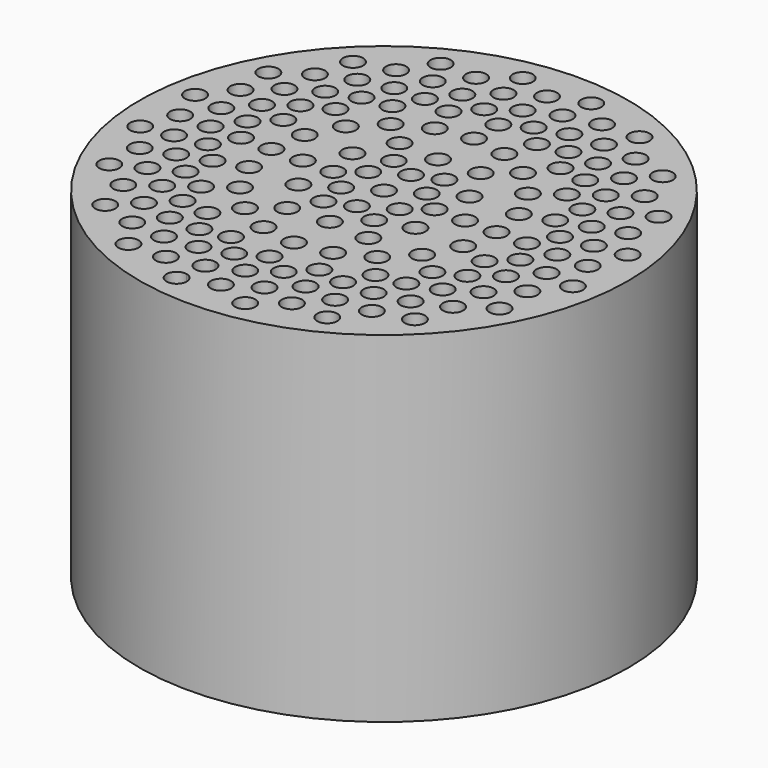
from build123d import *

# Parameters (mm, degrees)
F0_R     = 30.607
F0_R_2   = 29.337
F1_DEPTH = 42.672
F2_R     = 29.337
F2_R_2   = 1.27
F3_DEPTH = 2.54
F4_R     = 1.27
F7_DEPTH = 2.54
F5_R     = 1.27
F8_DEPTH = 2.54
F6_R     = 1.27
F9_DEPTH = 2.54


with BuildPart() as f1:
    # F0 (on Top) → F1 (new body)
    with BuildSketch(Plane.XY):
        Circle(F0_R)
        Circle(F0_R_2, mode=Mode.SUBTRACT)
    extrude(amount=-F1_DEPTH)

    # F2 (on Top) → F3 (join)
    with BuildSketch(Plane.XY):
        Circle(F2_R)
        with Locations((-15.004394, -20.651777)):
            Circle(F2_R_2, mode=Mode.SUBTRACT)
        with Locations((-20.651777, -15.004394)):
            Circle(F2_R_2, mode=Mode.SUBTRACT)
        with Locations((-7.888277, -24.27762)):
            Circle(F2_R_2, mode=Mode.SUBTRACT)
        with Locations((0, -25.527)):
            Circle(F2_R_2, mode=Mode.SUBTRACT)
        with Locations((-12.764932, -17.569422)):
            Circle(F2_R_2, mode=Mode.SUBTRACT)
        with Locations((-6.710922, -20.654094)):
            Circle(F2_R_2, mode=Mode.SUBTRACT)
        with Locations((0, -21.717)):
            Circle(F2_R_2, mode=Mode.SUBTRACT)
        with Locations((-5.533567, -17.030569)):
            Circle(F2_R_2, mode=Mode.SUBTRACT)
        with Locations((0, -17.907)):
            Circle(F2_R_2, mode=Mode.SUBTRACT)
        with Locations((-24.27762, -7.888277)):
            Circle(F2_R_2, mode=Mode.SUBTRACT)
        with Locations((-17.569422, -12.764932)):
            Circle(F2_R_2, mode=Mode.SUBTRACT)
        with Locations((-25.527, 0)):
            Circle(F2_R_2, mode=Mode.SUBTRACT)
        with Locations((-20.654094, -6.710922)):
            Circle(F2_R_2, mode=Mode.SUBTRACT)
        with Locations((-17.030569, -5.533567)):
            Circle(F2_R_2, mode=Mode.SUBTRACT)
        with Locations((-21.717, 0)):
            Circle(F2_R_2, mode=Mode.SUBTRACT)
        with Locations((-17.907, 0)):
            Circle(F2_R_2, mode=Mode.SUBTRACT)
        with Locations((-10.525471, -14.487067)):
            Circle(F2_R_2, mode=Mode.SUBTRACT)
        with Locations((-8.286009, -11.404713)):
            Circle(F2_R_2, mode=Mode.SUBTRACT)
        with Locations((-14.487067, -10.525471)):
            Circle(F2_R_2, mode=Mode.SUBTRACT)
        with Locations((-11.404713, -8.286009)):
            Circle(F2_R_2, mode=Mode.SUBTRACT)
        with Locations((-4.356213, -13.407044)):
            Circle(F2_R_2, mode=Mode.SUBTRACT)
        with Locations((0, -14.097)):
            Circle(F2_R_2, mode=Mode.SUBTRACT)
        with Locations((-13.407044, -4.356213)):
            Circle(F2_R_2, mode=Mode.SUBTRACT)
        with Locations((-14.097, 0)):
            Circle(F2_R_2, mode=Mode.SUBTRACT)
        Circle(F2_R_2, mode=Mode.SUBTRACT)
        with Locations((7.888277, -24.27762)):
            Circle(F2_R_2, mode=Mode.SUBTRACT)
        with Locations((6.710922, -20.654094)):
            Circle(F2_R_2, mode=Mode.SUBTRACT)
        with Locations((5.533567, -17.030569)):
            Circle(F2_R_2, mode=Mode.SUBTRACT)
        with Locations((12.764932, -17.569422)):
            Circle(F2_R_2, mode=Mode.SUBTRACT)
        with Locations((15.004394, -20.651777)):
            Circle(F2_R_2, mode=Mode.SUBTRACT)
        with Locations((20.651777, -15.004394)):
            Circle(F2_R_2, mode=Mode.SUBTRACT)
        with Locations((4.356213, -13.407044)):
            Circle(F2_R_2, mode=Mode.SUBTRACT)
        with Locations((10.525471, -14.487067)):
            Circle(F2_R_2, mode=Mode.SUBTRACT)
        with Locations((8.286009, -11.404713)):
            Circle(F2_R_2, mode=Mode.SUBTRACT)
        with Locations((14.487067, -10.525471)):
            Circle(F2_R_2, mode=Mode.SUBTRACT)
        with Locations((11.404713, -8.286009)):
            Circle(F2_R_2, mode=Mode.SUBTRACT)
        with Locations((13.407044, -4.356213)):
            Circle(F2_R_2, mode=Mode.SUBTRACT)
        with Locations((14.097, 0)):
            Circle(F2_R_2, mode=Mode.SUBTRACT)
        with Locations((17.569422, -12.764932)):
            Circle(F2_R_2, mode=Mode.SUBTRACT)
        with Locations((24.27762, -7.888277)):
            Circle(F2_R_2, mode=Mode.SUBTRACT)
        with Locations((17.030569, -5.533567)):
            Circle(F2_R_2, mode=Mode.SUBTRACT)
        with Locations((20.654094, -6.710922)):
            Circle(F2_R_2, mode=Mode.SUBTRACT)
        with Locations((17.907, 0)):
            Circle(F2_R_2, mode=Mode.SUBTRACT)
        with Locations((21.717, 0)):
            Circle(F2_R_2, mode=Mode.SUBTRACT)
        with Locations((25.527, 0)):
            Circle(F2_R_2, mode=Mode.SUBTRACT)
        with Locations((-20.654094, 6.710922)):
            Circle(F2_R_2, mode=Mode.SUBTRACT)
        with Locations((-17.030569, 5.533567)):
            Circle(F2_R_2, mode=Mode.SUBTRACT)
        with Locations((-24.27762, 7.888277)):
            Circle(F2_R_2, mode=Mode.SUBTRACT)
        with Locations((-17.569422, 12.764932)):
            Circle(F2_R_2, mode=Mode.SUBTRACT)
        with Locations((-13.407044, 4.356213)):
            Circle(F2_R_2, mode=Mode.SUBTRACT)
        with Locations((-11.404713, 8.286009)):
            Circle(F2_R_2, mode=Mode.SUBTRACT)
        with Locations((-14.487067, 10.525471)):
            Circle(F2_R_2, mode=Mode.SUBTRACT)
        with Locations((-8.286009, 11.404713)):
            Circle(F2_R_2, mode=Mode.SUBTRACT)
        with Locations((-10.525471, 14.487067)):
            Circle(F2_R_2, mode=Mode.SUBTRACT)
        with Locations((-4.356213, 13.407044)):
            Circle(F2_R_2, mode=Mode.SUBTRACT)
        with Locations((0, 14.097)):
            Circle(F2_R_2, mode=Mode.SUBTRACT)
        with Locations((-20.651777, 15.004394)):
            Circle(F2_R_2, mode=Mode.SUBTRACT)
        with Locations((-15.004394, 20.651777)):
            Circle(F2_R_2, mode=Mode.SUBTRACT)
        with Locations((-12.764932, 17.569422)):
            Circle(F2_R_2, mode=Mode.SUBTRACT)
        with Locations((-5.533567, 17.030569)):
            Circle(F2_R_2, mode=Mode.SUBTRACT)
        with Locations((0, 17.907)):
            Circle(F2_R_2, mode=Mode.SUBTRACT)
        with Locations((-6.710922, 20.654094)):
            Circle(F2_R_2, mode=Mode.SUBTRACT)
        with Locations((0, 21.717)):
            Circle(F2_R_2, mode=Mode.SUBTRACT)
        with Locations((-7.888277, 24.27762)):
            Circle(F2_R_2, mode=Mode.SUBTRACT)
        with Locations((0, 25.527)):
            Circle(F2_R_2, mode=Mode.SUBTRACT)
        with Locations((13.407044, 4.356213)):
            Circle(F2_R_2, mode=Mode.SUBTRACT)
        with Locations((4.356213, 13.407044)):
            Circle(F2_R_2, mode=Mode.SUBTRACT)
        with Locations((11.404713, 8.286009)):
            Circle(F2_R_2, mode=Mode.SUBTRACT)
        with Locations((14.487067, 10.525471)):
            Circle(F2_R_2, mode=Mode.SUBTRACT)
        with Locations((8.286009, 11.404713)):
            Circle(F2_R_2, mode=Mode.SUBTRACT)
        with Locations((10.525471, 14.487067)):
            Circle(F2_R_2, mode=Mode.SUBTRACT)
        with Locations((17.030569, 5.533567)):
            Circle(F2_R_2, mode=Mode.SUBTRACT)
        with Locations((20.654094, 6.710922)):
            Circle(F2_R_2, mode=Mode.SUBTRACT)
        with Locations((17.569422, 12.764932)):
            Circle(F2_R_2, mode=Mode.SUBTRACT)
        with Locations((24.27762, 7.888277)):
            Circle(F2_R_2, mode=Mode.SUBTRACT)
        with Locations((5.533567, 17.030569)):
            Circle(F2_R_2, mode=Mode.SUBTRACT)
        with Locations((6.710922, 20.654094)):
            Circle(F2_R_2, mode=Mode.SUBTRACT)
        with Locations((12.764932, 17.569422)):
            Circle(F2_R_2, mode=Mode.SUBTRACT)
        with Locations((7.888277, 24.27762)):
            Circle(F2_R_2, mode=Mode.SUBTRACT)
        with Locations((20.651777, 15.004394)):
            Circle(F2_R_2, mode=Mode.SUBTRACT)
        with Locations((15.004394, 20.651777)):
            Circle(F2_R_2, mode=Mode.SUBTRACT)
    extrude(amount=-F3_DEPTH)

    # F4 (on face) → F7 (cut, through all)
    with BuildSketch(Plane.XY):
        with BuildLine():
            ThreePointArc((-3.893967, -24.585538), (-2.870496, -24.29689), (-2.425295, -23.331174))
            ThreePointArc((-2.425295, -23.331174), (-2.729579, -22.506375), (-3.496623, -22.07681))
            Line((-3.496623, -22.07681), (-3.893967, -24.585538))
        make_face()
        with BuildLine():
            ThreePointArc((-3.02131, -27.094267), (-3.325595, -26.269468), (-4.092638, -25.839902))
            Line((-4.092638, -25.839902), (-4.489982, -28.348631))
            ThreePointArc((-4.489982, -28.348631), (-3.466511, -28.059982), (-3.02131, -27.094267))
        make_face()
        with BuildLine():
            Line((-4.489982, -28.348631), (-4.092638, -25.839902))
            ThreePointArc((-4.092638, -25.839902), (-5.545674, -26.895595), (-4.489982, -28.348631))
        make_face()
        with BuildLine():
            ThreePointArc((-2.900608, -18.313717), (-4.353644, -19.36941), (-3.297951, -20.822446))
            Line((-3.297951, -20.822446), (-2.900608, -18.313717))
        make_face()
        with BuildLine():
            Line((-2.900608, -18.313717), (-3.297951, -20.822446))
            ThreePointArc((-3.297951, -20.822446), (-2.274481, -20.533797), (-1.82928, -19.568081))
            ThreePointArc((-1.82928, -19.568081), (-2.133564, -18.743282), (-2.900608, -18.313717))
        make_face()
        with BuildLine():
            Line((-3.893967, -24.585538), (-3.496623, -22.07681))
            ThreePointArc((-3.496623, -22.07681), (-4.949659, -23.132502), (-3.893967, -24.585538))
        make_face()
        with Locations((4.29131, -27.094267)):
            Circle(F4_R)
        with Locations((3.695295, -23.331174)):
            Circle(F4_R)
        with Locations((12.453867, -24.442091)):
            Circle(F4_R)
        with Locations((10.724164, -21.047356)):
            Circle(F4_R)
        with Locations((19.397353, -19.397353)):
            Circle(F4_R)
        with Locations((16.703276, -16.703276)):
            Circle(F4_R)
        with Locations((24.442091, -12.453867)):
            Circle(F4_R)
        with Locations((21.047356, -10.724164)):
            Circle(F4_R)
        with Locations((27.094267, -4.29131)):
            Circle(F4_R)
        with Locations((23.331174, -3.695295)):
            Circle(F4_R)
        with Locations((27.094267, 4.29131)):
            Circle(F4_R)
        with Locations((23.331174, 3.695295)):
            Circle(F4_R)
        with Locations((24.442091, 12.453867)):
            Circle(F4_R)
        with Locations((21.047356, 10.724164)):
            Circle(F4_R)
        with Locations((19.397353, 19.397353)):
            Circle(F4_R)
        with Locations((16.703276, 16.703276)):
            Circle(F4_R)
        with Locations((12.453867, 24.442091)):
            Circle(F4_R)
        with Locations((10.724164, 21.047356)):
            Circle(F4_R)
        with Locations((4.29131, 27.094267)):
            Circle(F4_R)
        with Locations((3.695295, 23.331174)):
            Circle(F4_R)
        with Locations((-4.29131, 27.094267)):
            Circle(F4_R)
        with Locations((-3.695295, 23.331174)):
            Circle(F4_R)
        with Locations((-12.453867, 24.442091)):
            Circle(F4_R)
        with Locations((-10.724164, 21.047356)):
            Circle(F4_R)
        with Locations((-19.397353, 19.397353)):
            Circle(F4_R)
        with Locations((-16.703276, 16.703276)):
            Circle(F4_R)
        with Locations((-24.442091, 12.453867)):
            Circle(F4_R)
        with Locations((-21.047356, 10.724164)):
            Circle(F4_R)
        with Locations((-27.094267, 4.29131)):
            Circle(F4_R)
        with Locations((-23.331174, 3.695295)):
            Circle(F4_R)
        with Locations((-27.094267, -4.29131)):
            Circle(F4_R)
        with Locations((-23.331174, -3.695295)):
            Circle(F4_R)
        with Locations((-24.442091, -12.453867)):
            Circle(F4_R)
        with Locations((-21.047356, -10.724164)):
            Circle(F4_R)
        with Locations((-19.397353, -19.397353)):
            Circle(F4_R)
        with Locations((-16.703276, -16.703276)):
            Circle(F4_R)
        with Locations((-12.453867, -24.442091)):
            Circle(F4_R)
        with Locations((-10.724164, -21.047356)):
            Circle(F4_R)
        with Locations((3.09928, -19.568081)):
            Circle(F4_R)
        with Locations((8.99446, -17.652621)):
            Circle(F4_R)
        with Locations((14.0092, -14.0092)):
            Circle(F4_R)
        with Locations((17.652621, -8.99446)):
            Circle(F4_R)
        with Locations((19.568081, -3.09928)):
            Circle(F4_R)
        with Locations((19.568081, 3.09928)):
            Circle(F4_R)
        with Locations((17.652621, 8.99446)):
            Circle(F4_R)
        with Locations((14.0092, 14.0092)):
            Circle(F4_R)
        with Locations((8.99446, 17.652621)):
            Circle(F4_R)
        with Locations((3.09928, 19.568081)):
            Circle(F4_R)
        with Locations((-3.09928, 19.568081)):
            Circle(F4_R)
        with Locations((-8.99446, 17.652621)):
            Circle(F4_R)
        with Locations((-14.0092, 14.0092)):
            Circle(F4_R)
        with Locations((-17.652621, 8.99446)):
            Circle(F4_R)
        with Locations((-19.568081, 3.09928)):
            Circle(F4_R)
        with Locations((-19.568081, -3.09928)):
            Circle(F4_R)
        with Locations((-17.652621, -8.99446)):
            Circle(F4_R)
        with Locations((-14.0092, -14.0092)):
            Circle(F4_R)
        with Locations((-8.99446, -17.652621)):
            Circle(F4_R)
    extrude(amount=-F7_DEPTH, mode=Mode.SUBTRACT)

    # F5 (on face) → F8 (cut, through all)
    with BuildSketch(Plane.XY):
        with Locations((0, -4.233333)):
            Circle(F5_R)
        with Locations((0, -8.466667)):
            Circle(F5_R)
        with Locations((3.666174, -2.116667)):
            Circle(F5_R)
        with Locations((7.332348, -4.233333)):
            Circle(F5_R)
        with Locations((3.666174, 2.116667)):
            Circle(F5_R)
        with Locations((7.332348, 4.233333)):
            Circle(F5_R)
        with Locations((0, 4.233333)):
            Circle(F5_R)
        with Locations((0, 8.466667)):
            Circle(F5_R)
        with Locations((-3.666174, 2.116667)):
            Circle(F5_R)
        with Locations((-7.332348, 4.233333)):
            Circle(F5_R)
        with Locations((-3.666174, -2.116667)):
            Circle(F5_R)
        with Locations((-7.332348, -4.233333)):
            Circle(F5_R)
    extrude(amount=-F8_DEPTH, mode=Mode.SUBTRACT)

    # F6 (on face) → F9 (cut, through all)
    with BuildSketch(Plane.XY):
        with Locations((-6.35, 0)):
            Circle(F6_R)
        with Locations((-3.175, -5.499261)):
            Circle(F6_R)
        with Locations((3.175, -5.499261)):
            Circle(F6_R)
        with Locations((6.35, 0)):
            Circle(F6_R)
        with Locations((3.175, 5.499261)):
            Circle(F6_R)
        with Locations((-3.175, 5.499261)):
            Circle(F6_R)
        with Locations((-10.16, 0)):
            Circle(F6_R)
        with Locations((-5.08, -8.798818)):
            Circle(F6_R)
        with Locations((5.08, -8.798818)):
            Circle(F6_R)
        with Locations((10.16, 0)):
            Circle(F6_R)
        with Locations((5.08, 8.798818)):
            Circle(F6_R)
        with Locations((-5.08, 8.798818)):
            Circle(F6_R)
    extrude(amount=-F9_DEPTH, mode=Mode.SUBTRACT)


solid = f1.part
